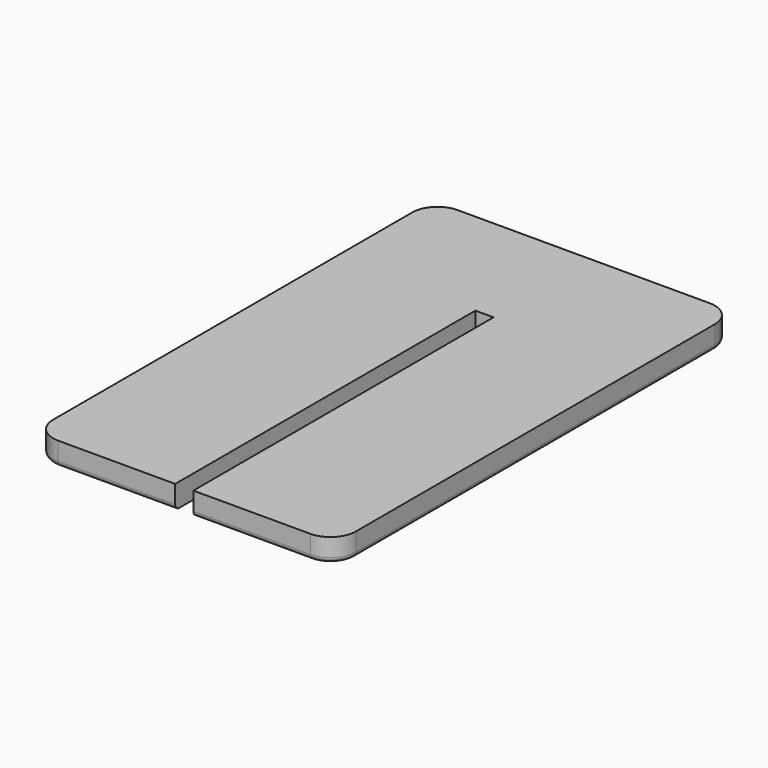
from build123d import *

# Parameters (mm, degrees)
F1_DEPTH = 2.3
F2_R     = 2.5
F3_R     = 0.5


with BuildPart() as f1:
    # F0 (on Top) → F1 (new body)
    with BuildSketch(Plane.XY):
        Polygon((15, 24.75), (-15, 24.75), (-15, -24.75), (-0.9, -24.75), (-0.9, 12.45), (0.9, 12.45), (0.9, -24.75), (15, -24.75), align=None)
    extrude(amount=F1_DEPTH)

    # F2
    f2_edges = [f1.edges().sort_by_distance(p)[0] for p in [
        (-15, 24.75, 1.15),
        (-15, -24.75, 1.15),
        (15, -24.75, 1.15),
        (15, 24.75, 1.15),
    ]]
    fillet(f2_edges, radius=F2_R)

    # F3
    f3_edges = [f1.edges().sort_by_distance(p)[0] for p in [
        (6.7, -24.75, 0),
        (14.267767, -24.017767, 0),
        (15, 0, 0),
        (0, 24.75, 0),
        (14.267767, 24.017767, 0),
        (-14.267767, 24.017767, 0),
        (-15, 0, 0),
        (-14.267767, -24.017767, 0),
    ]]
    fillet(f3_edges, radius=F3_R)


solid = f1.part
